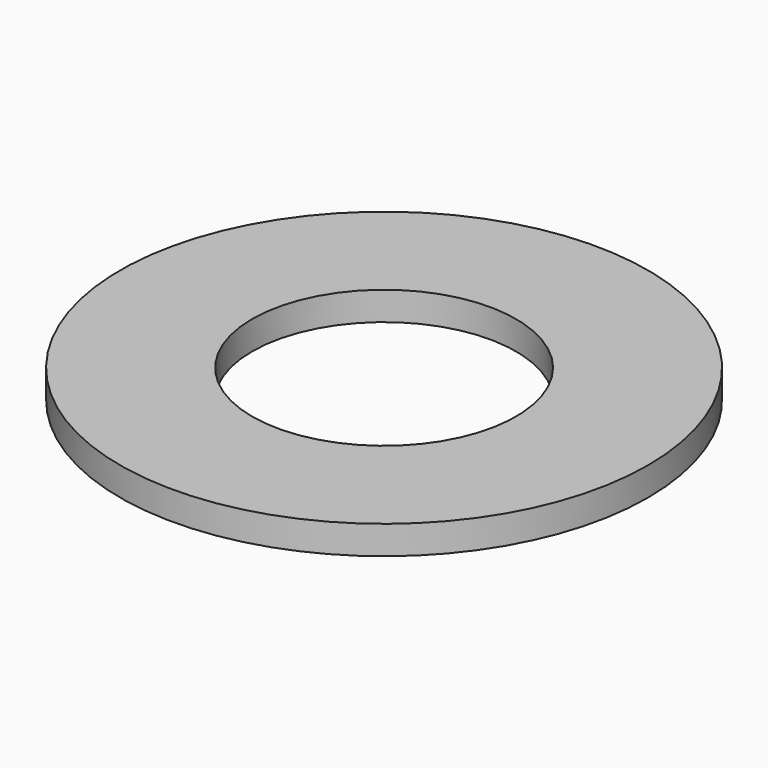
from build123d import *

# Parameters (mm, degrees)
F0_R     = 38.1
F1_DEPTH = 4.1148
F2_D     = 38.1
F2_DEPTH = 12.7


with BuildPart() as f1:
    # F0 (on Top) → F1 (new body)
    with BuildSketch(Plane.XY):
        Circle(F0_R)
    extrude(amount=F1_DEPTH)

    # F2
    with Locations(Plane(origin=(0, 0, 0), x_dir=(1, 0, 0), z_dir=(0, 0, -1))):
        with Locations((0, 0)):
            Hole(F2_D / 2, depth=F2_DEPTH)


solid = f1.part
